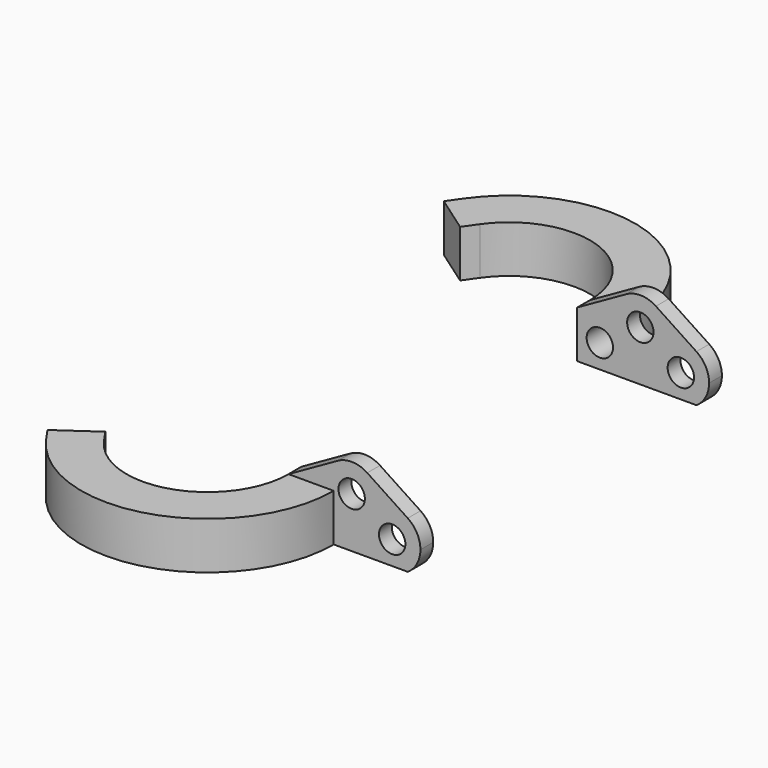
from build123d import *

# Parameters (mm, degrees)
F0_R     = 1.778
F1_DEPTH = 2.159
F2_ANGLE = 145
F3_DEPTH = 2.54
F4_DEPTH = 2.159


with BuildPart() as f1:
    # F0 (on Front) → F1 (new body)
    with BuildSketch(Plane.XZ):
        with BuildLine():
            Line((10.922, 3.1840745665), (15.6445236422, 3.1840745665))
            ThreePointArc((15.6445236422, 3.1840745665), (16.0396062012, 5.3430454035), (17.5601409029, 6.9258339315))
            Line((17.5601409029, 6.9258339315), (10.922, 3.1840745665))
        make_face()
        with BuildLine():
            ThreePointArc((23.2369771619, 3.4317633085), (22.6101818624, 1.5070612816), (21.0860228381, 0.1750366915))
            ThreePointArc((21.0860228381, 0.1750366915), (21.4981289619, -1.7313980989), (22.7996880837, -3.1840745665))
            Line((22.7996880837, -3.1840745665), (26.9843119163, -3.1840745665))
            ThreePointArc((26.9843119163, -3.1840745665), (28.245193135, -1.8089211701), (28.702, 0))
            ThreePointArc((28.702, 0), (28.2473021114, 1.8050062995), (26.9917387184, 3.1791818624))
            ThreePointArc((26.9917387184, 3.1791818624), (25.147719378, 3.8014086336), (23.2369771619, 3.4317633085))
        make_face()
        with Locations((24.892, 0)):
            Circle(F0_R, mode=Mode.SUBTRACT)
        with BuildLine():
            Line((26.9917387184, 3.1791818624), (21.5307387184, 6.7859818624))
            ThreePointArc((21.5307387184, 6.7859818624), (22.7863021114, 5.4118062995), (23.241, 3.6068))
            ThreePointArc((23.241, 3.6068), (23.2399941577, 3.5192585432), (23.2369771619, 3.4317633085))
            ThreePointArc((23.2369771619, 3.4317633085), (25.147719378, 3.8014086336), (26.9917387184, 3.1791818624))
        make_face()
        with BuildLine():
            ThreePointArc((17.018, 0.6583205614), (16.0838765931, 1.786672285), (15.6445236422, 3.1840745665))
            Line((15.6445236422, 3.1840745665), (10.922, 3.1840745665))
            Line((10.922, 3.1840745665), (10.922, -3.1840745665))
            Line((10.922, -3.1840745665), (17.018, -3.1840745665))
            Line((17.018, -3.1840745665), (17.018, 0.6583205614))
        make_face()
        with Locations((13.97, 0)):
            Circle(F0_R, mode=Mode.SUBTRACT)
        with BuildLine():
            Line((15.6445236422, 3.1840745665), (17.018, 3.1840745665))
            Line((17.018, 3.1840745665), (17.018, 0.6583205614))
            ThreePointArc((17.018, 0.6583205614), (18.9815301243, -0.1765948817), (21.0860228381, 0.1750366915))
            ThreePointArc((21.0860228381, 0.1750366915), (21.7128181376, 2.0997387184), (23.2369771619, 3.4317633085))
            ThreePointArc((23.2369771619, 3.4317633085), (23.2399941577, 3.5192585432), (23.241, 3.6068))
            ThreePointArc((23.241, 3.6068), (22.7863021114, 5.4118062995), (21.5307387184, 6.7859818624))
            ThreePointArc((21.5307387184, 6.7859818624), (19.5651123431, 7.4144388851), (17.5601409029, 6.9258339315))
            ThreePointArc((17.5601409029, 6.9258339315), (16.0396062012, 5.3430454035), (15.6445236422, 3.1840745665))
        make_face()
        with Locations((19.431, 3.6068)):
            Circle(F0_R, mode=Mode.SUBTRACT)
        with BuildLine():
            ThreePointArc((23.2369771619, 3.4317633085), (21.7128181376, 2.0997387184), (21.0860228381, 0.1750366915))
            ThreePointArc((21.0860228381, 0.1750366915), (22.6101818624, 1.5070612816), (23.2369771619, 3.4317633085))
        make_face()
        with BuildLine():
            ThreePointArc((21.0860228381, 0.1750366915), (18.9815301243, -0.1765948817), (17.018, 0.6583205614))
            Line((17.018, 0.6583205614), (17.018, -3.1840745665))
            Line((17.018, -3.1840745665), (22.7996880837, -3.1840745665))
            ThreePointArc((22.7996880837, -3.1840745665), (21.4981289619, -1.7313980989), (21.0860228381, 0.1750366915))
        make_face()
        with BuildLine():
            Line((17.018, 0.6583205614), (17.018, 3.1840745665))
            Line((17.018, 3.1840745665), (15.6445236422, 3.1840745665))
            ThreePointArc((15.6445236422, 3.1840745665), (16.0838765931, 1.786672285), (17.018, 0.6583205614))
        make_face()
    extrude(amount=-F1_DEPTH)

    # F0 (on Front) → F2 (revolve)
    with BuildSketch(Plane.XZ):
        with BuildLine():
            ThreePointArc((17.018, 0.6583205614), (16.0838765931, 1.786672285), (15.6445236422, 3.1840745665))
            Line((15.6445236422, 3.1840745665), (10.922, 3.1840745665))
            Line((10.922, 3.1840745665), (10.922, -3.1840745665))
            Line((10.922, -3.1840745665), (17.018, -3.1840745665))
            Line((17.018, -3.1840745665), (17.018, 0.6583205614))
        make_face()
        with Locations((13.97, 0)):
            Circle(F0_R, mode=Mode.SUBTRACT)
        with Locations((13.97, 0)):
            Circle(F0_R)
        with BuildLine():
            Line((17.018, 0.6583205614), (17.018, 3.1840745665))
            Line((17.018, 3.1840745665), (15.6445236422, 3.1840745665))
            ThreePointArc((15.6445236422, 3.1840745665), (16.0838765931, 1.786672285), (17.018, 0.6583205614))
        make_face()
    revolve(axis=Axis((0, 0, 0), (0, 0, -1)), revolution_arc=F2_ANGLE)

    # F0 (on Front) → F3 (cut)
    with BuildSketch(Plane.XZ):
        with Locations((13.97, 0)):
            Circle(F0_R)
    extrude(amount=F3_DEPTH, mode=Mode.SUBTRACT)

    # F4 (add): a face of the model
    f4_faces = [f1.faces().sort_by_distance(p)[0] for p in [
        (-11.4435540587, -8.0128628158, 0),
    ]]
    extrude(f4_faces, amount=F4_DEPTH)


with BuildPart() as f6_1:
    # F6: instance of F1
    add(f1.part.mirror(Plane.XZ.offset(-25.4)))


solid = Compound([f1.part, f6_1.part])
